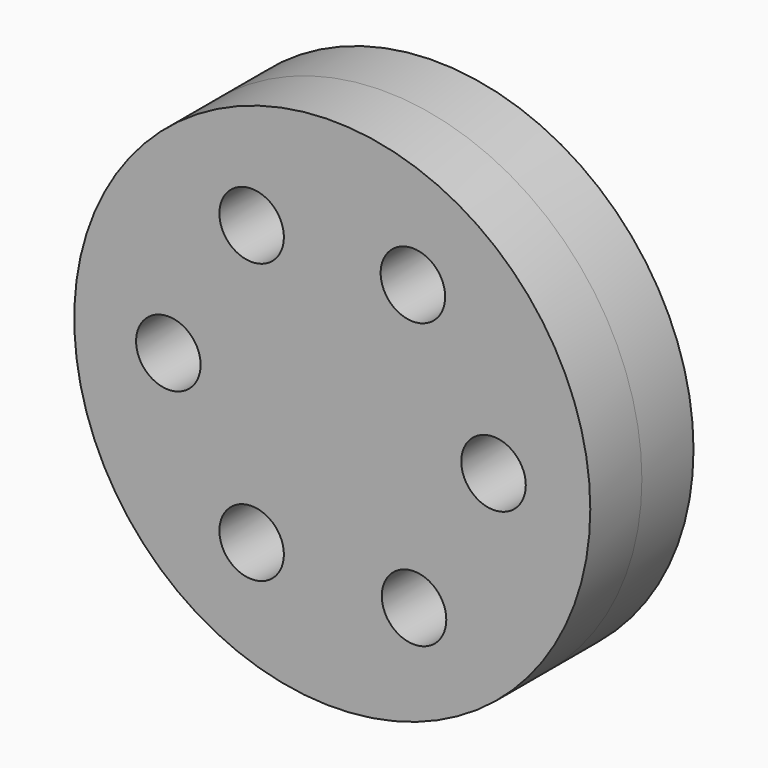
from build123d import *

# Parameters (mm, degrees)
F0_R     = 101.6
F1_DEPTH = 25.4
F2_R     = 101.6
F2_R_2   = 12.7
F3_DEPTH = 25.4


with BuildPart() as f1:
    # F0 (on Front) → F1 (new body)
    with BuildSketch(Plane.XZ):
        Circle(F0_R)
        with BuildLine():
            Line((19.6325851525, -54.9926131403), (-19.05, -54.9926131403))
            ThreePointArc((-19.05, -54.9926131403), (-38.1, -65.9911357684), (-38.1, -43.9940905122))
            Line((-38.1, -43.9940905122), (-57.4518341607, -10.4757305262))
            ThreePointArc((-57.4518341607, -10.4757305262), (-77.2457617014, 0.0875184165), (-57.4034323023, 10.5595650041))
            Line((-57.4034323023, 10.5595650041), (-38.1, 43.9940905122))
            ThreePointArc((-38.1, 43.9940905122), (-38.1, 65.9911357684), (-19.05, 54.9926131403))
            Line((-19.05, 54.9926131403), (19.05, 54.9926131403))
            ThreePointArc((19.05, 54.9926131403), (31.75, 67.6926131403), (44.45, 54.9926131403))
            ThreePointArc((44.45, 54.9926131403), (42.7485226281, 48.6426131403), (38.1, 43.9940905122))
            Line((38.1, 43.9940905122), (57.15, 10.9985226281))
            ThreePointArc((57.15, 10.9985226281), (69.85, 10.9985226281), (76.2, 0))
            ThreePointArc((76.2, 0), (69.85, -10.9985226281), (57.15, -10.9985226281))
            Line((57.15, -10.9985226281), (37.3892362724, -45.2251694006))
            ThreePointArc((37.3892362724, -45.2251694006), (42.8587779535, -49.9105766959), (44.9008617222, -56.8170100451))
            ThreePointArc((44.9008617222, -56.8170100451), (31.2862887169, -69.4840363819), (19.6325851525, -54.9926131403))
        make_face(mode=Mode.SUBTRACT)
        with BuildLine():
            ThreePointArc((-38.1, -43.9940905122), (-25.4, -43.9940905122), (-19.05, -54.9926131403))
            Line((-19.05, -54.9926131403), (19.6325851525, -54.9926131403))
            ThreePointArc((19.6325851525, -54.9926131403), (26.0798750569, -45.689408226), (37.3892362724, -45.2251694006))
            Line((37.3892362724, -45.2251694006), (57.15, -10.9985226281))
            ThreePointArc((57.15, -10.9985226281), (50.8, 0), (57.15, 10.9985226281))
            Line((57.15, 10.9985226281), (38.1, 43.9940905122))
            ThreePointArc((38.1, 43.9940905122), (25.4, 43.9940905122), (19.05, 54.9926131403))
            Line((19.05, 54.9926131403), (-19.05, 54.9926131403))
            ThreePointArc((-19.05, 54.9926131403), (-25.4, 43.9940905122), (-38.1, 43.9940905122))
            Line((-38.1, 43.9940905122), (-57.4034323023, 10.5595650041))
            ThreePointArc((-57.4034323023, 10.5595650041), (-53.3208674744, 5.9989184369), (-51.8457953215, 0.0582960092))
            ThreePointArc((-51.8457953215, 0.0582960092), (-53.3345664249, -5.9081389925), (-57.4518341607, -10.4757305262))
            Line((-57.4518341607, -10.4757305262), (-38.1, -43.9940905122))
        make_face()
    extrude(amount=F1_DEPTH)


with BuildPart() as f3:
    # F2 (on face) → F3 (new body)
    with BuildSketch(Plane.XZ.offset(25.4)):
        Circle(F2_R)
        with Locations((-31.75, -54.9926131403)):
            Circle(F2_R_2, mode=Mode.SUBTRACT)
        with Locations((32.2008617222, -56.8170100451)):
            Circle(F2_R_2, mode=Mode.SUBTRACT)
        with Locations((63.5, 0)):
            Circle(F2_R_2, mode=Mode.SUBTRACT)
        with Locations((-64.5457953215, 0.0582960092)):
            Circle(F2_R_2, mode=Mode.SUBTRACT)
        with Locations((-31.75, 54.9926131403)):
            Circle(F2_R_2, mode=Mode.SUBTRACT)
        with Locations((31.75, 54.9926131403)):
            Circle(F2_R_2, mode=Mode.SUBTRACT)
    extrude(amount=F3_DEPTH)


solid = Compound([f1.part, f3.part])
